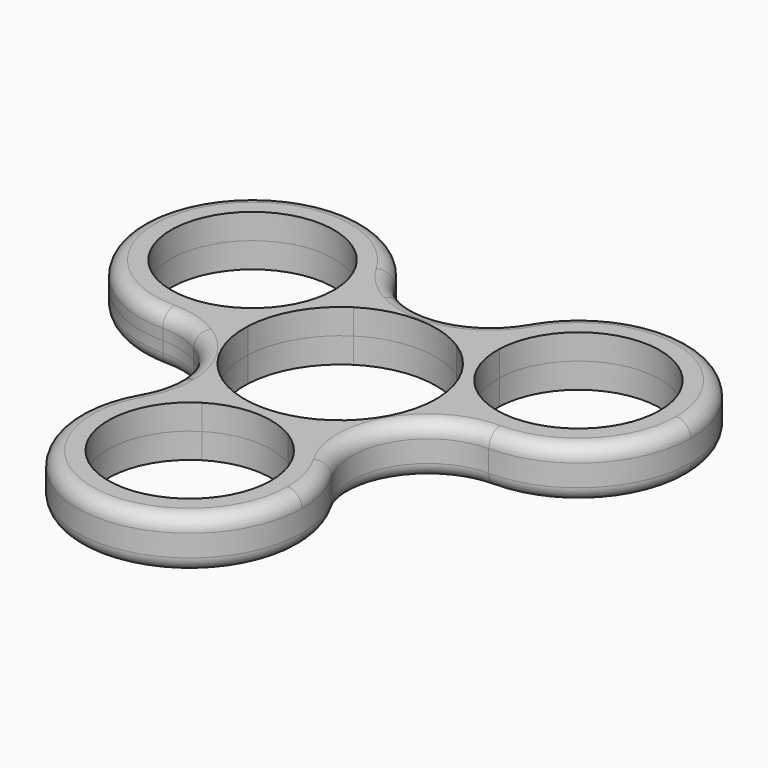
from build123d import *

# Parameters (mm, degrees)
F1_DEPTH      = 3.5
F1_DEPTH_BACK = 3.5
F2_R          = 2


with BuildPart() as f1:
    # F0 (on Top) → F1 (new body, two sides)
    with BuildSketch(Plane.XY) as f1_sk:
        with BuildLine():
            ThreePointArc((-22.5166604984, -2.5), (-19.9337471533, -2.2832770914), (-17.4230630331, -1.6391688583))
            ThreePointArc((-17.4230630331, -1.6391688583), (-17.4850933488, 0.7221568971), (-17.2285548508, 3.0703253498))
            ThreePointArc((-17.2285548508, 3.0703253498), (-32.259446291, 18.625), (-11.2732571762, 13.3852034964))
            ThreePointArc((-11.2732571762, 13.3852034964), (-9.3679528928, 14.7814565791), (-7.2919696442, 15.9083996275))
            ThreePointArc((-7.2919696442, 15.9083996275), (-7.9894975134, 18.404769709), (-9.093266458, 20.749999512))
            ThreePointArc((-9.093266458, 20.749999512), (-35.9400541162, 20.750000244), (-22.5166604984, -2.5))
        make_face()
        with BuildLine():
            ThreePointArc((-13.2370927111, 0.5847021107), (-11.4748366001, 6.625), (-7.124913237, 11.1713075047))
            ThreePointArc((-7.124913237, 11.1713075047), (-7.0437473507, 12.0840530996), (-7.0166604984, 13))
            ThreePointArc((-7.0166604984, 13), (-7.0856412799, 14.4607004757), (-7.2919696442, 15.9083996275))
            ThreePointArc((-7.2919696442, 15.9083996275), (-9.3679528928, 14.7814565791), (-11.2732571762, 13.3852034964))
            ThreePointArc((-11.2732571762, 13.3852034964), (-11.2683097887, 13.1926299884), (-11.2666604984, 13))
            ThreePointArc((-11.2666604984, 13), (-12.8716180274, 7.2090021816), (-17.2285548508, 3.0703253498))
            ThreePointArc((-17.2285548508, 3.0703253498), (-17.4850933488, 0.7221568971), (-17.4230630331, -1.6391688583))
            ThreePointArc((-17.4230630331, -1.6391688583), (-15.2445651768, -0.6881930741), (-13.2370927111, 0.5847021107))
        make_face()
        with BuildLine():
            ThreePointArc((-17.0247238991, -4.0507747604), (-17.2660495449, -2.8519349769), (-17.4230630331, -1.6391688583))
            ThreePointArc((-17.4230630331, -1.6391688583), (-19.9337471533, -2.2832770914), (-22.5166604984, -2.5))
            ThreePointArc((-22.5166604984, -2.5), (-19.6633172852, -2.8951282785), (-17.0247238991, -4.0507747604))
        make_face()
        with BuildLine():
            ThreePointArc((-9.093266458, 20.749999512), (-7.9894975134, 18.404769709), (-7.2919696442, 15.9083996275))
            ThreePointArc((-7.2919696442, 15.9083996275), (-6.1631766325, 16.3788050173), (-5.004288102, 16.7692307692))
            ThreePointArc((-5.004288102, 16.7692307692), (-7.3244038044, 18.4764962344), (-9.093266458, 20.749999512))
        make_face()
        with BuildLine():
            ThreePointArc((5.004288102, 16.7692307692), (6.1631766325, 16.3788050173), (7.2919696442, 15.9083996275))
            ThreePointArc((7.2919696442, 15.9083996275), (7.9894975218, 18.4047697315), (9.093266482, 20.7499995536))
            ThreePointArc((9.093266482, 20.7499995536), (7.3244038216, 18.4764962512), (5.004288102, 16.7692307692))
        make_face()
        with BuildLine():
            ThreePointArc((22.5166604984, -2.5), (19.9337471533, -2.2832770914), (17.4230630331, -1.6391688583))
            ThreePointArc((17.4230630331, -1.6391688583), (17.2660495449, -2.8519349769), (17.0247238991, -4.0507747604))
            ThreePointArc((17.0247238991, -4.0507747604), (19.6633172852, -2.8951282785), (22.5166604984, -2.5))
        make_face()
        with BuildLine():
            ThreePointArc((7.124913237, 11.1713075047), (11.4748366001, 6.625), (13.2370927111, 0.5847021107))
            ThreePointArc((13.2370927111, 0.5847021107), (15.2445651768, -0.6881930741), (17.4230630331, -1.6391688583))
            ThreePointArc((17.4230630331, -1.6391688583), (17.4807551765, -0.8204867218), (17.5, 0))
            ThreePointArc((17.5, 0), (17.4320066241, 1.5411505623), (17.2285548508, 3.0703253498))
            ThreePointArc((17.2285548508, 3.0703253498), (12.7738747058, 7.375), (11.2732571762, 13.3852034964))
            ThreePointArc((11.2732571762, 13.3852034964), (9.3679528928, 14.7814565791), (7.2919696442, 15.9083996275))
            ThreePointArc((7.2919696442, 15.9083996275), (7.0262899035, 13.5462772498), (7.124913237, 11.1713075047))
        make_face()
        with BuildLine():
            ThreePointArc((17.5, 0), (17.4807551765, -0.8204867218), (17.4230630331, -1.6391688583))
            ThreePointArc((17.4230630331, -1.6391688583), (19.9337471533, -2.2832770914), (22.5166604984, -2.5))
            ThreePointArc((22.5166604984, -2.5), (33.4768156068, 2.0398448916), (38.0166604984, 13))
            ThreePointArc((38.0166604984, 13), (26.5283554485, 27.9718503742), (9.093266482, 20.7499995536))
            ThreePointArc((9.093266482, 20.7499995536), (7.9894975218, 18.4047697315), (7.2919696442, 15.9083996275))
            ThreePointArc((7.2919696442, 15.9083996275), (9.3679528928, 14.7814565791), (11.2732571762, 13.3852034964))
            ThreePointArc((11.2732571762, 13.3852034964), (22.7092904868, 24.2483507097), (33.7666604984, 13))
            ThreePointArc((33.7666604984, 13), (28.3076583168, 3.354957529), (17.2285548508, 3.0703253498))
            ThreePointArc((17.2285548508, 3.0703253498), (17.4320066241, 1.5411505623), (17.5, 0))
        make_face()
        with BuildLine():
            ThreePointArc((12.0204357971, -12.7184560088), (11.1028729124, -13.5268700405), (10.1310933889, -14.2692307692))
            ThreePointArc((10.1310933889, -14.2692307692), (11.9442497212, -16.1214930988), (13.4233940404, -18.250000488))
            ThreePointArc((13.4233940404, -18.250000488), (12.3389133483, -15.5813684255), (12.0204357971, -12.7184560088))
        make_face()
        with BuildLine():
            ThreePointArc((10.1310933889, -14.2692307692), (8.2182752733, -12.8580841757), (6.112179474, -11.7560096154))
            ThreePointArc((6.112179474, -11.7560096154), (0, -13.25), (-6.112179474, -11.7560096154))
            ThreePointArc((-6.112179474, -11.7560096154), (-8.2182752733, -12.8580841757), (-10.1310933889, -14.2692307692))
            ThreePointArc((-10.1310933889, -14.2692307692), (-8.117140456, -15.5036134761), (-5.9552976746, -16.4555288462))
            ThreePointArc((-5.9552976746, -16.4555288462), (0, -14.75), (5.9552976746, -16.4555288462))
            ThreePointArc((5.9552976746, -16.4555288462), (8.117140456, -15.5036134761), (10.1310933889, -14.2692307692))
        make_face()
        with BuildLine():
            ThreePointArc((13.4233940404, -18.250000488), (11.9442497212, -16.1214930988), (10.1310933889, -14.2692307692))
            ThreePointArc((10.1310933889, -14.2692307692), (8.117140456, -15.5036134761), (5.9552976746, -16.4555288462))
            ThreePointArc((5.9552976746, -16.4555288462), (9.8376724595, -20.5426471087), (11.25, -26))
            ThreePointArc((11.25, -26), (-5.4573528913, -35.8376724595), (-5.9552976746, -16.4555288462))
            ThreePointArc((-5.9552976746, -16.4555288462), (-8.117140456, -15.5036134761), (-10.1310933889, -14.2692307692))
            ThreePointArc((-10.1310933889, -14.2692307692), (-11.9442497104, -16.1214930857), (-13.4233940234, -18.2500004585))
            ThreePointArc((-13.4233940234, -18.2500004585), (-4.0116949434, -40.971850376), (15.5, -26))
            ThreePointArc((15.5, -26), (14.9718503804, -21.988305073), (13.4233940404, -18.250000488))
        make_face()
        with BuildLine():
            ThreePointArc((-13.4233940234, -18.2500004585), (-11.9442497104, -16.1214930857), (-10.1310933889, -14.2692307692))
            ThreePointArc((-10.1310933889, -14.2692307692), (-11.1028729124, -13.5268700405), (-12.0204357971, -12.7184560088))
            ThreePointArc((-12.0204357971, -12.7184560088), (-12.0176043655, -12.859215349), (-12.0166604984, -13))
            ThreePointArc((-12.0166604984, -13), (-12.3744393909, -15.7176002293), (-13.4233940234, -18.2500004585))
        make_face()
        with BuildLine():
            ThreePointArc((7.124913237, 11.1713075047), (11.4748366001, 6.625), (13.2370927111, 0.5847021107))
            ThreePointArc((13.2370927111, 0.5847021107), (15.2445651768, -0.6881930741), (17.4230630331, -1.6391688583))
            ThreePointArc((17.4230630331, -1.6391688583), (17.4807551765, -0.8204867218), (17.5, 0))
            ThreePointArc((17.5, 0), (17.4320066241, 1.5411505623), (17.2285548508, 3.0703253498))
            ThreePointArc((17.2285548508, 3.0703253498), (12.7738747058, 7.375), (11.2732571762, 13.3852034964))
            ThreePointArc((11.2732571762, 13.3852034964), (9.3679528928, 14.7814565791), (7.2919696442, 15.9083996275))
            ThreePointArc((7.2919696442, 15.9083996275), (7.0262899035, 13.5462772498), (7.124913237, 11.1713075047))
        make_face()
        with BuildLine():
            ThreePointArc((-7.124913237, 11.1713075047), (0, 13.25), (7.124913237, 11.1713075047))
            ThreePointArc((7.124913237, 11.1713075047), (7.0262899035, 13.5462772498), (7.2919696442, 15.9083996275))
            ThreePointArc((7.2919696442, 15.9083996275), (6.1631766325, 16.3788050173), (5.004288102, 16.7692307692))
            ThreePointArc((5.004288102, 16.7692307692), (0, 15.5), (-5.004288102, 16.7692307692))
            ThreePointArc((-5.004288102, 16.7692307692), (-6.1631766325, 16.3788050173), (-7.2919696442, 15.9083996275))
            ThreePointArc((-7.2919696442, 15.9083996275), (-7.0856412799, 14.4607004757), (-7.0166604984, 13))
            ThreePointArc((-7.0166604984, 13), (-7.0437473507, 12.0840530996), (-7.124913237, 11.1713075047))
        make_face()
        with BuildLine():
            ThreePointArc((-13.2370927111, 0.5847021107), (-11.4748366001, 6.625), (-7.124913237, 11.1713075047))
            ThreePointArc((-7.124913237, 11.1713075047), (-7.0437473507, 12.0840530996), (-7.0166604984, 13))
            ThreePointArc((-7.0166604984, 13), (-7.0856412799, 14.4607004757), (-7.2919696442, 15.9083996275))
            ThreePointArc((-7.2919696442, 15.9083996275), (-9.3679528928, 14.7814565791), (-11.2732571762, 13.3852034964))
            ThreePointArc((-11.2732571762, 13.3852034964), (-11.2683097887, 13.1926299884), (-11.2666604984, 13))
            ThreePointArc((-11.2666604984, 13), (-12.8716180274, 7.2090021816), (-17.2285548508, 3.0703253498))
            ThreePointArc((-17.2285548508, 3.0703253498), (-17.4850933488, 0.7221568971), (-17.4230630331, -1.6391688583))
            ThreePointArc((-17.4230630331, -1.6391688583), (-15.2445651768, -0.6881930741), (-13.2370927111, 0.5847021107))
        make_face()
        with BuildLine():
            ThreePointArc((-10.1310933889, -14.2692307692), (-8.2182752733, -12.8580841757), (-6.112179474, -11.7560096154))
            ThreePointArc((-6.112179474, -11.7560096154), (-11.4748366001, -6.625), (-13.2370927111, 0.5847021107))
            ThreePointArc((-13.2370927111, 0.5847021107), (-15.2445651768, -0.6881930741), (-17.4230630331, -1.6391688583))
            ThreePointArc((-17.4230630331, -1.6391688583), (-17.2660495449, -2.8519349769), (-17.0247238991, -4.0507747604))
            ThreePointArc((-17.0247238991, -4.0507747604), (-13.4233937587, -7.75), (-12.0204357971, -12.7184560088))
            ThreePointArc((-12.0204357971, -12.7184560088), (-11.1028729124, -13.5268700405), (-10.1310933889, -14.2692307692))
        make_face()
        with BuildLine():
            ThreePointArc((10.1310933889, -14.2692307692), (8.2182752733, -12.8580841757), (6.112179474, -11.7560096154))
            ThreePointArc((6.112179474, -11.7560096154), (0, -13.25), (-6.112179474, -11.7560096154))
            ThreePointArc((-6.112179474, -11.7560096154), (-8.2182752733, -12.8580841757), (-10.1310933889, -14.2692307692))
            ThreePointArc((-10.1310933889, -14.2692307692), (-8.117140456, -15.5036134761), (-5.9552976746, -16.4555288462))
            ThreePointArc((-5.9552976746, -16.4555288462), (0, -14.75), (5.9552976746, -16.4555288462))
            ThreePointArc((5.9552976746, -16.4555288462), (8.117140456, -15.5036134761), (10.1310933889, -14.2692307692))
        make_face()
        with BuildLine():
            ThreePointArc((13.2370927111, 0.5847021107), (13.2467727848, 0.2924222787), (13.25, 0))
            ThreePointArc((13.25, 0), (11.3258306104, -6.8766315144), (6.112179474, -11.7560096154))
            ThreePointArc((6.112179474, -11.7560096154), (8.2182752733, -12.8580841757), (10.1310933889, -14.2692307692))
            ThreePointArc((10.1310933889, -14.2692307692), (11.1028729124, -13.5268700405), (12.0204357971, -12.7184560088))
            ThreePointArc((12.0204357971, -12.7184560088), (13.4233937587, -7.75), (17.0247238991, -4.0507747604))
            ThreePointArc((17.0247238991, -4.0507747604), (17.2660495449, -2.8519349769), (17.4230630331, -1.6391688583))
            ThreePointArc((17.4230630331, -1.6391688583), (15.2445651768, -0.6881930741), (13.2370927111, 0.5847021107))
        make_face()
        with BuildLine():
            ThreePointArc((13.4233940404, -18.250000488), (11.9442497212, -16.1214930988), (10.1310933889, -14.2692307692))
            ThreePointArc((10.1310933889, -14.2692307692), (8.117140456, -15.5036134761), (5.9552976746, -16.4555288462))
            ThreePointArc((5.9552976746, -16.4555288462), (9.8376724595, -20.5426471087), (11.25, -26))
            ThreePointArc((11.25, -26), (-5.4573528913, -35.8376724595), (-5.9552976746, -16.4555288462))
            ThreePointArc((-5.9552976746, -16.4555288462), (-8.117140456, -15.5036134761), (-10.1310933889, -14.2692307692))
            ThreePointArc((-10.1310933889, -14.2692307692), (-11.9442497104, -16.1214930857), (-13.4233940234, -18.2500004585))
            ThreePointArc((-13.4233940234, -18.2500004585), (-4.0116949434, -40.971850376), (15.5, -26))
            ThreePointArc((15.5, -26), (14.9718503804, -21.988305073), (13.4233940404, -18.250000488))
        make_face()
        with BuildLine():
            ThreePointArc((-22.5166604984, -2.5), (-19.9337471533, -2.2832770914), (-17.4230630331, -1.6391688583))
            ThreePointArc((-17.4230630331, -1.6391688583), (-17.4850933488, 0.7221568971), (-17.2285548508, 3.0703253498))
            ThreePointArc((-17.2285548508, 3.0703253498), (-32.259446291, 18.625), (-11.2732571762, 13.3852034964))
            ThreePointArc((-11.2732571762, 13.3852034964), (-9.3679528928, 14.7814565791), (-7.2919696442, 15.9083996275))
            ThreePointArc((-7.2919696442, 15.9083996275), (-7.9894975134, 18.404769709), (-9.093266458, 20.749999512))
            ThreePointArc((-9.093266458, 20.749999512), (-35.9400541162, 20.750000244), (-22.5166604984, -2.5))
        make_face()
        with BuildLine():
            ThreePointArc((17.5, 0), (17.4807551765, -0.8204867218), (17.4230630331, -1.6391688583))
            ThreePointArc((17.4230630331, -1.6391688583), (19.9337471533, -2.2832770914), (22.5166604984, -2.5))
            ThreePointArc((22.5166604984, -2.5), (33.4768156068, 2.0398448916), (38.0166604984, 13))
            ThreePointArc((38.0166604984, 13), (26.5283554485, 27.9718503742), (9.093266482, 20.7499995536))
            ThreePointArc((9.093266482, 20.7499995536), (7.9894975218, 18.4047697315), (7.2919696442, 15.9083996275))
            ThreePointArc((7.2919696442, 15.9083996275), (9.3679528928, 14.7814565791), (11.2732571762, 13.3852034964))
            ThreePointArc((11.2732571762, 13.3852034964), (22.7092904868, 24.2483507097), (33.7666604984, 13))
            ThreePointArc((33.7666604984, 13), (28.3076583168, 3.354957529), (17.2285548508, 3.0703253498))
            ThreePointArc((17.2285548508, 3.0703253498), (17.4320066241, 1.5411505623), (17.5, 0))
        make_face()
    extrude(amount=F1_DEPTH)
    extrude(f1_sk.sketch, amount=-F1_DEPTH_BACK)

    # F2
    f2_edges = [f1.edges().sort_by_distance(p)[0] for p in [
        (-35.940054, 20.75, 3.5),
        (-35.940054, 20.75, -3.5),
    ]]
    fillet(f2_edges, radius=F2_R)


solid = f1.part
